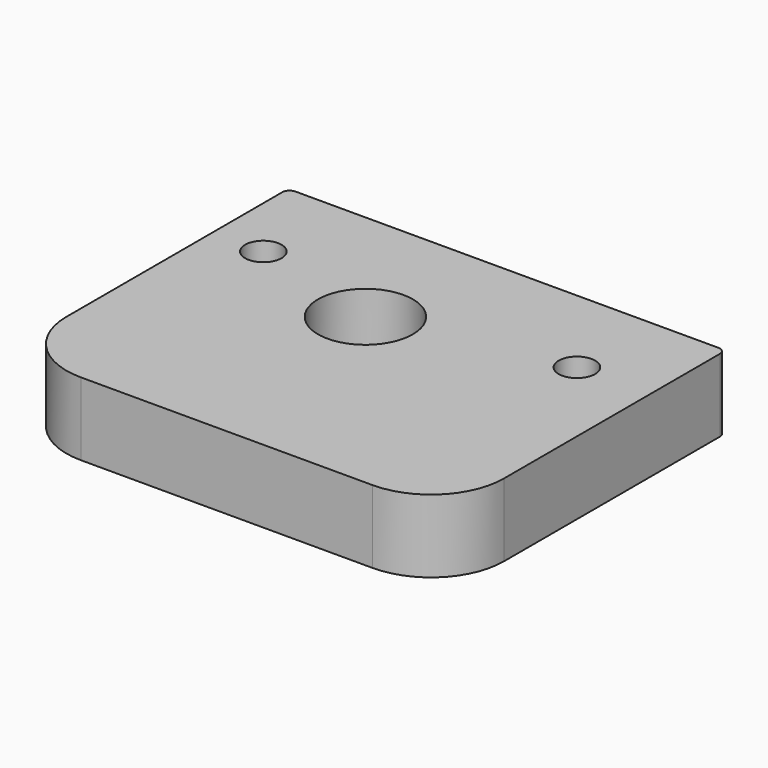
from build123d import *

# Parameters (mm, degrees)
SKETCH_W    = 60
SKETCH_H    = 48
SKETCH_R    = 2.5
SKETCH_R_2  = 6.5
PAD_DEPTH   = 10
FILLET_R    = 10
FILLET001_R = 1


with BuildPart() as part:
    # Sketch → Pad (new body)
    with BuildSketch(Plane.XY):
        with Locations((5, -91)):
            Rectangle(SKETCH_W, SKETCH_H)
        with Locations((25, -80)):
            Circle(SKETCH_R, mode=Mode.SUBTRACT)
        with Locations((-18, -80)):
            Circle(SKETCH_R, mode=Mode.SUBTRACT)
        with Locations((0, -85)):
            Circle(SKETCH_R_2, mode=Mode.SUBTRACT)
    extrude(amount=PAD_DEPTH)

    # Fillet
    fillet_edges = [part.edges().sort_by_distance(p)[0] for p in [
        (-25, -115, 5),
        (35, -115, 5),
    ]]
    fillet(fillet_edges, radius=FILLET_R)

    # Fillet001
    fillet001_edges = [part.edges().sort_by_distance(p)[0] for p in [
        (35, -67, 5),
        (-25, -67, 5),
    ]]
    fillet(fillet001_edges, radius=FILLET001_R)


solid = part.part
